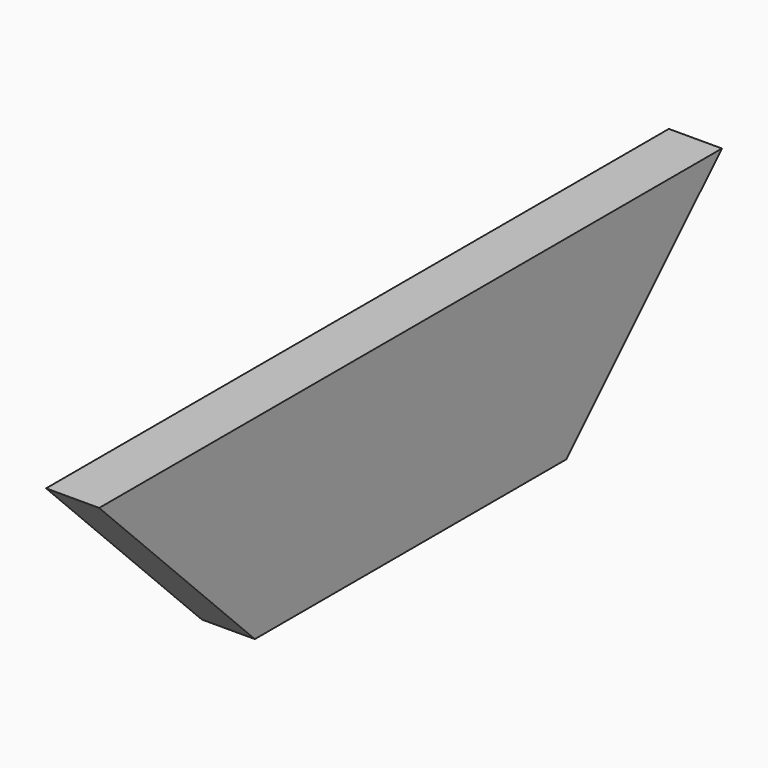
from build123d import *

# Parameters (mm, degrees)
F0_W     = 38.1
F0_H     = 139.7
F1_DEPTH = 279.4
F3_DEPTH = 38.1


with BuildPart() as f1:
    # F0 (on Front) → F1 (new body)
    with BuildSketch(Plane.XZ):
        Rectangle(F0_W, F0_H)
    extrude(amount=F1_DEPTH)

    # F2 (on face) → F3 (join, through all)
    with BuildSketch(Plane.YZ.offset(19.05)):
        Polygon((-419.1, 69.85), (-279.4, -69.85), (-279.4, 69.85), align=None)
        Polygon((0, 69.85), (0, -69.85), (139.7, 69.85), align=None)
    extrude(amount=-F3_DEPTH)


solid = f1.part
